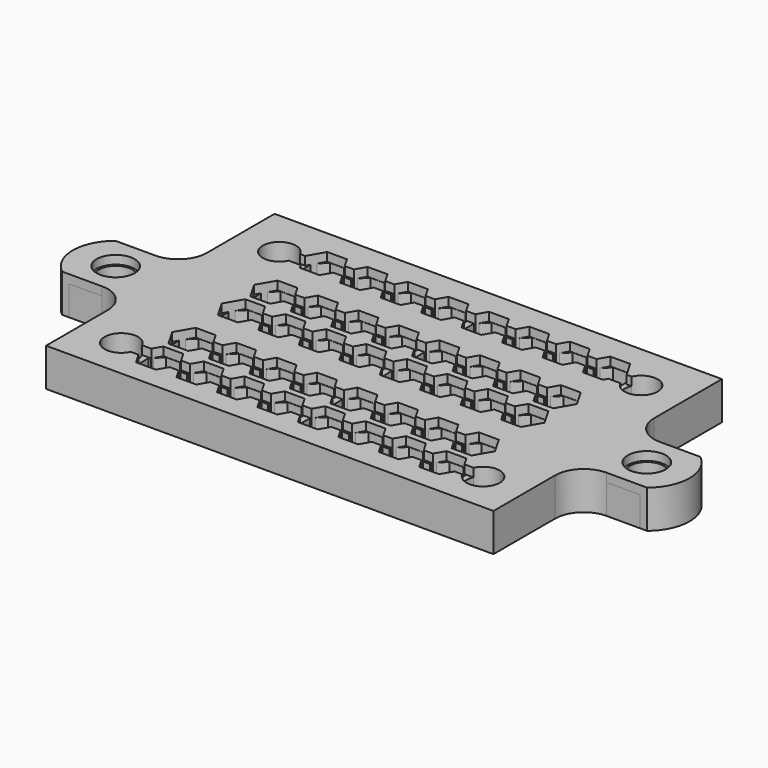
from build123d import *

# Parameters (mm, degrees)
F2_R     = 2
F3_DEPTH = 4
F0_R     = 1.775
F4_DEPTH = 3.1
F1_W     = 12
F1_H     = 1
F5_DEPTH = 25
F6_SIZE  = 2


with BuildPart() as f3:
    # F2 (on Top) → F3 (new body)
    with BuildSketch(Plane.XY):
        with BuildLine():
            Line((-23.524906, -14.603892), (23.475094, -14.603892))
            Line((23.475094, -14.603892), (23.475094, -6.5))
            ThreePointArc((23.475094, -6.5), (24.353773, -4.37868), (26.475094, -3.5))
            Line((26.475094, -3.5), (30.728427, -3.5))
            ThreePointArc((30.728427, -3.5), (32.4, 0), (30.728427, 3.5))
            Line((30.728427, 3.5), (26.475094, 3.5))
            ThreePointArc((26.475094, 3.5), (24.353773, 4.37868), (23.475094, 6.5))
            Line((23.475094, 6.5), (23.475094, 15.396108))
            Line((23.475094, 15.396108), (-23.524906, 15.396108))
            Line((-23.524906, 15.396108), (-23.524906, 6.5))
            ThreePointArc((-23.524906, 6.5), (-24.403586, 4.37868), (-26.524906, 3.5))
            Line((-26.524906, 3.5), (-30.728427, 3.5))
            ThreePointArc((-30.728427, 3.5), (-32.4, 0), (-30.728427, -3.5))
            Line((-30.728427, -3.5), (-26.524906, -3.5))
            ThreePointArc((-26.524906, -3.5), (-24.403586, -4.37868), (-23.524906, -6.5))
            Line((-23.524906, -6.5), (-23.524906, -14.603892))
        make_face()
        with Locations((-27.9, 0)):
            Circle(F2_R, mode=Mode.SUBTRACT)
        with BuildLine():
            Line((0.479552, -9.75), (1.08577, -8.7))
            Line((1.08577, -8.7), (3.16423, -8.7))
            Line((3.16423, -8.7), (3.770448, -9.75))
            Line((3.770448, -9.75), (4.729552, -9.75))
            Line((4.729552, -9.75), (5.33577, -8.7))
            Line((5.33577, -8.7), (7.41423, -8.7))
            Line((7.41423, -8.7), (8.020448, -9.75))
            Line((8.020448, -9.75), (8.979552, -9.75))
            Line((8.979552, -9.75), (9.58577, -8.7))
            Line((9.58577, -8.7), (11.66423, -8.7))
            Line((11.66423, -8.7), (12.270448, -9.75))
            Line((12.270448, -9.75), (13.229552, -9.75))
            Line((13.229552, -9.75), (13.83577, -8.7))
            Line((13.83577, -8.7), (15.91423, -8.7))
            Line((15.91423, -8.7), (16.448279, -9.625))
            Line((16.448279, -9.625), (17.418861, -9.625))
            ThreePointArc((17.418861, -9.625), (20.75, -10.375), (17.418861, -11.125))
            Line((17.418861, -11.125), (16.592617, -11.125))
            Line((16.592617, -11.125), (15.91423, -12.3))
            Line((15.91423, -12.3), (13.83577, -12.3))
            Line((13.83577, -12.3), (13.229552, -11.25))
            Line((13.229552, -11.25), (12.270448, -11.25))
            Line((12.270448, -11.25), (11.66423, -12.3))
            Line((11.66423, -12.3), (9.58577, -12.3))
            Line((9.58577, -12.3), (8.979552, -11.25))
            Line((8.979552, -11.25), (8.020448, -11.25))
            Line((8.020448, -11.25), (7.41423, -12.3))
            Line((7.41423, -12.3), (5.33577, -12.3))
            Line((5.33577, -12.3), (4.729552, -11.25))
            Line((4.729552, -11.25), (3.770448, -11.25))
            Line((3.770448, -11.25), (3.16423, -12.3))
            Line((3.16423, -12.3), (1.08577, -12.3))
            Line((1.08577, -12.3), (0.479552, -11.25))
            Line((0.479552, -11.25), (-0.479552, -11.25))
            Line((-0.479552, -11.25), (-1.08577, -12.3))
            Line((-1.08577, -12.3), (-3.16423, -12.3))
            Line((-3.16423, -12.3), (-3.770448, -11.25))
            Line((-3.770448, -11.25), (-4.729552, -11.25))
            Line((-4.729552, -11.25), (-5.33577, -12.3))
            Line((-5.33577, -12.3), (-7.41423, -12.3))
            Line((-7.41423, -12.3), (-8.020448, -11.25))
            Line((-8.020448, -11.25), (-8.979552, -11.25))
            Line((-8.979552, -11.25), (-9.58577, -12.3))
            Line((-9.58577, -12.3), (-11.66423, -12.3))
            Line((-11.66423, -12.3), (-12.270448, -11.25))
            Line((-12.270448, -11.25), (-13.229552, -11.25))
            Line((-13.229552, -11.25), (-13.83577, -12.3))
            Line((-13.83577, -12.3), (-15.91423, -12.3))
            Line((-15.91423, -12.3), (-16.592617, -11.125))
            Line((-16.592617, -11.125), (-17.418861, -11.125))
            ThreePointArc((-17.418861, -11.125), (-20.75, -10.375), (-17.418861, -9.625))
            Line((-17.418861, -9.625), (-16.448279, -9.625))
            Line((-16.448279, -9.625), (-15.91423, -8.7))
            Line((-15.91423, -8.7), (-13.83577, -8.7))
            Line((-13.83577, -8.7), (-13.229552, -9.75))
            Line((-13.229552, -9.75), (-12.270448, -9.75))
            Line((-12.270448, -9.75), (-11.66423, -8.7))
            Line((-11.66423, -8.7), (-9.58577, -8.7))
            Line((-9.58577, -8.7), (-8.979552, -9.75))
            Line((-8.979552, -9.75), (-8.020448, -9.75))
            Line((-8.020448, -9.75), (-7.41423, -8.7))
            Line((-7.41423, -8.7), (-5.33577, -8.7))
            Line((-5.33577, -8.7), (-4.729552, -9.75))
            Line((-4.729552, -9.75), (-3.770448, -9.75))
            Line((-3.770448, -9.75), (-3.16423, -8.7))
            Line((-3.16423, -8.7), (-1.08577, -8.7))
            Line((-1.08577, -8.7), (-0.479552, -9.75))
            Line((-0.479552, -9.75), (0.479552, -9.75))
        make_face(mode=Mode.SUBTRACT)
        Polygon((8.979552, -5.5), (9.58577, -4.45), (11.66423, -4.45), (12.270448, -5.5), (13.229552, -5.5), (13.83577, -4.45), (15.91423, -4.45), (16.953461, -6.25), (15.91423, -8.05), (13.83577, -8.05), (13.229552, -7), (12.270448, -7), (11.66423, -8.05), (9.58577, -8.05), (8.979552, -7), (8.020448, -7), (7.41423, -8.05), (5.33577, -8.05), (4.729552, -7), (3.770448, -7), (3.16423, -8.05), (1.08577, -8.05), (0.479552, -7), (-0.479552, -7), (-1.08577, -8.05), (-3.16423, -8.05), (-3.770448, -7), (-4.729552, -7), (-5.33577, -8.05), (-7.41423, -8.05), (-8.020448, -7), (-8.979552, -7), (-9.58577, -8.05), (-11.66423, -8.05), (-12.270448, -7), (-13.229552, -7), (-13.83577, -8.05), (-15.91423, -8.05), (-16.953461, -6.25), (-15.91423, -4.45), (-13.83577, -4.45), (-13.229552, -5.5), (-12.270448, -5.5), (-11.66423, -4.45), (-9.58577, -4.45), (-8.979552, -5.5), (-8.020448, -5.5), (-7.41423, -4.45), (-5.33577, -4.45), (-4.729552, -5.5), (-3.770448, -5.5), (-3.16423, -4.45), (-1.08577, -4.45), (-0.479552, -5.5), (0.479552, -5.5), (1.08577, -4.45), (3.16423, -4.45), (3.770448, -5.5), (4.729552, -5.5), (5.33577, -4.45), (7.41423, -4.45), (8.020448, -5.5), align=None, mode=Mode.SUBTRACT)
        Polygon((0.479552, 1), (1.08577, 2.05), (3.16423, 2.05), (3.770448, 1), (4.729552, 1), (5.33577, 2.05), (7.41423, 2.05), (8.020448, 1), (8.979552, 1), (9.58577, 2.05), (11.66423, 2.05), (12.270448, 1), (13.229552, 1), (13.83577, 2.05), (15.91423, 2.05), (16.953461, 0.25), (15.91423, -1.55), (13.83577, -1.55), (13.229552, -0.5), (12.270448, -0.5), (11.66423, -1.55), (9.58577, -1.55), (8.979552, -0.5), (8.020448, -0.5), (7.41423, -1.55), (5.33577, -1.55), (4.729552, -0.5), (3.770448, -0.5), (3.16423, -1.55), (1.08577, -1.55), (0.479552, -0.5), (-0.479552, -0.5), (-1.08577, -1.55), (-3.16423, -1.55), (-3.770448, -0.5), (-4.729552, -0.5), (-5.33577, -1.55), (-7.41423, -1.55), (-8.020448, -0.5), (-8.979552, -0.5), (-9.58577, -1.55), (-11.66423, -1.55), (-12.270448, -0.5), (-13.229552, -0.5), (-13.83577, -1.55), (-15.91423, -1.55), (-16.953461, 0.25), (-15.91423, 2.05), (-13.83577, 2.05), (-13.229552, 1), (-12.270448, 1), (-11.66423, 2.05), (-9.58577, 2.05), (-8.979552, 1), (-8.020448, 1), (-7.41423, 2.05), (-5.33577, 2.05), (-4.729552, 1), (-3.770448, 1), (-3.16423, 2.05), (-1.08577, 2.05), (-0.479552, 1), align=None, mode=Mode.SUBTRACT)
        with Locations((27.9, 0)):
            Circle(F2_R, mode=Mode.SUBTRACT)
        Polygon((12.270448, 3.75), (11.66423, 2.7), (9.58577, 2.7), (8.979552, 3.75), (8.020448, 3.75), (7.41423, 2.7), (5.33577, 2.7), (4.729552, 3.75), (3.770448, 3.75), (3.16423, 2.7), (1.08577, 2.7), (0.479552, 3.75), (-0.479552, 3.75), (-1.08577, 2.7), (-3.16423, 2.7), (-3.770448, 3.75), (-4.729552, 3.75), (-5.33577, 2.7), (-7.41423, 2.7), (-8.020448, 3.75), (-8.979552, 3.75), (-9.58577, 2.7), (-11.66423, 2.7), (-12.270448, 3.75), (-13.229552, 3.75), (-13.373889, 3.5), (-13.83577, 2.7), (-15.91423, 2.7), (-16.953461, 4.5), (-15.91423, 6.3), (-13.83577, 6.3), (-13.229552, 5.25), (-12.270448, 5.25), (-11.66423, 6.3), (-9.58577, 6.3), (-8.979552, 5.25), (-8.020448, 5.25), (-7.41423, 6.3), (-5.33577, 6.3), (-4.729552, 5.25), (-3.770448, 5.25), (-3.16423, 6.3), (-1.08577, 6.3), (-0.479552, 5.25), (0.479552, 5.25), (1.08577, 6.3), (3.16423, 6.3), (3.770448, 5.25), (4.729552, 5.25), (5.33577, 6.3), (7.41423, 6.3), (8.020448, 5.25), (8.979552, 5.25), (9.58577, 6.3), (11.66423, 6.3), (12.270448, 5.25), (13.229552, 5.25), (13.83577, 6.3), (15.91423, 6.3), (16.953461, 4.5), (15.91423, 2.7), (13.83577, 2.7), (13.229552, 3.75), align=None, mode=Mode.SUBTRACT)
        with BuildLine():
            Line((-16.881292, 11.125), (-15.91423, 12.8))
            Line((-15.91423, 12.8), (-13.83577, 12.8))
            Line((-13.83577, 12.8), (-13.229552, 11.75))
            Line((-13.229552, 11.75), (-12.270448, 11.75))
            Line((-12.270448, 11.75), (-11.66423, 12.8))
            Line((-11.66423, 12.8), (-9.58577, 12.8))
            Line((-9.58577, 12.8), (-8.979552, 11.75))
            Line((-8.979552, 11.75), (-8.020448, 11.75))
            Line((-8.020448, 11.75), (-7.41423, 12.8))
            Line((-7.41423, 12.8), (-5.33577, 12.8))
            Line((-5.33577, 12.8), (-4.729552, 11.75))
            Line((-4.729552, 11.75), (-3.770448, 11.75))
            Line((-3.770448, 11.75), (-3.16423, 12.8))
            Line((-3.16423, 12.8), (-1.08577, 12.8))
            Line((-1.08577, 12.8), (-0.479552, 11.75))
            Line((-0.479552, 11.75), (0.479552, 11.75))
            Line((0.479552, 11.75), (1.08577, 12.8))
            Line((1.08577, 12.8), (3.16423, 12.8))
            Line((3.16423, 12.8), (3.770448, 11.75))
            Line((3.770448, 11.75), (4.729552, 11.75))
            Line((4.729552, 11.75), (5.33577, 12.8))
            Line((5.33577, 12.8), (7.41423, 12.8))
            Line((7.41423, 12.8), (8.020448, 11.75))
            Line((8.020448, 11.75), (8.979552, 11.75))
            Line((8.979552, 11.75), (9.58577, 12.8))
            Line((9.58577, 12.8), (11.66423, 12.8))
            Line((11.66423, 12.8), (12.270448, 11.75))
            Line((12.270448, 11.75), (13.229552, 11.75))
            Line((13.229552, 11.75), (13.83577, 12.8))
            Line((13.83577, 12.8), (15.91423, 12.8))
            Line((15.91423, 12.8), (16.881292, 11.125))
            Line((16.881292, 11.125), (17.418861, 11.125))
            ThreePointArc((17.418861, 11.125), (20.75, 10.375), (17.418861, 9.625))
            Line((17.418861, 9.625), (16.159604, 9.625))
            Line((16.159604, 9.625), (15.91423, 9.2))
            Line((15.91423, 9.2), (13.83577, 9.2))
            Line((13.83577, 9.2), (13.229552, 10.25))
            Line((13.229552, 10.25), (12.270448, 10.25))
            Line((12.270448, 10.25), (11.66423, 9.2))
            Line((11.66423, 9.2), (9.58577, 9.2))
            Line((9.58577, 9.2), (8.979552, 10.25))
            Line((8.979552, 10.25), (8.020448, 10.25))
            Line((8.020448, 10.25), (7.41423, 9.2))
            Line((7.41423, 9.2), (5.33577, 9.2))
            Line((5.33577, 9.2), (4.729552, 10.25))
            Line((4.729552, 10.25), (3.770448, 10.25))
            Line((3.770448, 10.25), (3.16423, 9.2))
            Line((3.16423, 9.2), (1.08577, 9.2))
            Line((1.08577, 9.2), (0.479552, 10.25))
            Line((0.479552, 10.25), (-0.479552, 10.25))
            Line((-0.479552, 10.25), (-1.08577, 9.2))
            Line((-1.08577, 9.2), (-3.16423, 9.2))
            Line((-3.16423, 9.2), (-3.770448, 10.25))
            Line((-3.770448, 10.25), (-4.729552, 10.25))
            Line((-4.729552, 10.25), (-5.33577, 9.2))
            Line((-5.33577, 9.2), (-7.41423, 9.2))
            Line((-7.41423, 9.2), (-8.020448, 10.25))
            Line((-8.020448, 10.25), (-8.979552, 10.25))
            Line((-8.979552, 10.25), (-9.58577, 9.2))
            Line((-9.58577, 9.2), (-11.66423, 9.2))
            Line((-11.66423, 9.2), (-12.270448, 10.25))
            Line((-12.270448, 10.25), (-13.229552, 10.25))
            Line((-13.229552, 10.25), (-13.83577, 9.2))
            Line((-13.83577, 9.2), (-15.91423, 9.2))
            Line((-15.91423, 9.2), (-16.159604, 9.625))
            Line((-16.159604, 9.625), (-17.418861, 9.625))
            ThreePointArc((-17.418861, 9.625), (-20.75, 10.375), (-17.418861, 11.125))
            Line((-17.418861, 11.125), (-16.881292, 11.125))
        make_face(mode=Mode.SUBTRACT)
    extrude(amount=F3_DEPTH)


with BuildPart() as f4:
    # F0 (on Top) → F4 (new body)
    with BuildSketch(Plane.XY):
        Polygon((-23, -13.75), (23, -13.75), (23, -3.5), (32, -3.5), (32, 3.5), (23, 3.5), (23, 14.25), (-23, 14.25), (-23, 3.5), (-32, 3.5), (-32, -3.5), (-23, -3.5), align=None)
        with Locations((-19, -10.375)):
            Circle(F0_R, mode=Mode.SUBTRACT)
        Polygon((-16.65, -11.235229), (-16.65, -9.764771), (-15.610229, -8.725), (-14.139771, -8.725), (-13.1, -9.764771), (-13.1, -11.235229), (-14.139771, -12.275), (-15.610229, -12.275), align=None, mode=Mode.SUBTRACT)
        Polygon((-8.85, -11.235229), (-9.889771, -12.275), (-11.360229, -12.275), (-12.4, -11.235229), (-12.4, -9.764771), (-11.360229, -8.725), (-9.889771, -8.725), (-8.85, -9.764771), align=None, mode=Mode.SUBTRACT)
        Polygon((-4.6, -9.764771), (-4.6, -11.235229), (-5.639771, -12.275), (-7.110229, -12.275), (-8.15, -11.235229), (-8.15, -9.764771), (-7.110229, -8.725), (-5.639771, -8.725), align=None, mode=Mode.SUBTRACT)
        Polygon((-3.9, -9.764771), (-2.860229, -8.725), (-1.389771, -8.725), (-0.35, -9.764771), (-0.35, -11.235229), (-1.389771, -12.275), (-2.860229, -12.275), (-3.9, -11.235229), align=None, mode=Mode.SUBTRACT)
        with Locations((-27.9, 0)):
            Circle(F0_R, mode=Mode.SUBTRACT)
        Polygon((-15.610229, -8.025), (-16.65, -6.985229), (-16.65, -5.514771), (-15.610229, -4.475), (-14.139771, -4.475), (-13.1, -5.514771), (-13.1, -6.985229), (-14.139771, -8.025), align=None, mode=Mode.SUBTRACT)
        Polygon((-9.889771, -4.475), (-8.85, -5.514771), (-8.85, -6.985229), (-9.889771, -8.025), (-11.360229, -8.025), (-12.4, -6.985229), (-12.4, -5.514771), (-11.360229, -4.475), align=None, mode=Mode.SUBTRACT)
        Polygon((-5.639771, -8.025), (-7.110229, -8.025), (-8.15, -6.985229), (-8.15, -5.514771), (-7.110229, -4.475), (-5.639771, -4.475), (-4.6, -5.514771), (-4.6, -6.985229), align=None, mode=Mode.SUBTRACT)
        Polygon((-3.9, -6.985229), (-3.9, -5.514771), (-2.860229, -4.475), (-1.389771, -4.475), (-0.35, -5.514771), (-0.35, -6.985229), (-1.389771, -8.025), (-2.860229, -8.025), align=None, mode=Mode.SUBTRACT)
        Polygon((3.9, -9.764771), (3.9, -11.235229), (2.860229, -12.275), (1.389771, -12.275), (0.35, -11.235229), (0.35, -9.764771), (1.389771, -8.725), (2.860229, -8.725), align=None, mode=Mode.SUBTRACT)
        Polygon((8.15, -9.764771), (8.15, -11.235229), (7.110229, -12.275), (5.639771, -12.275), (4.6, -11.235229), (4.6, -9.764771), (5.639771, -8.725), (7.110229, -8.725), align=None, mode=Mode.SUBTRACT)
        Polygon((9.889771, -12.275), (8.85, -11.235229), (8.85, -9.764771), (9.889771, -8.725), (11.360229, -8.725), (12.4, -9.764771), (12.4, -11.235229), (11.360229, -12.275), align=None, mode=Mode.SUBTRACT)
        Polygon((16.65, -9.764771), (16.65, -11.235229), (15.610229, -12.275), (14.139771, -12.275), (13.1, -11.235229), (13.1, -9.764771), (14.139771, -8.725), (15.610229, -8.725), align=None, mode=Mode.SUBTRACT)
        with Locations((19, -10.375)):
            Circle(F0_R, mode=Mode.SUBTRACT)
        Polygon((3.9, -5.514771), (3.9, -6.985229), (2.860229, -8.025), (1.389771, -8.025), (0.35, -6.985229), (0.35, -5.514771), (1.389771, -4.475), (2.860229, -4.475), align=None, mode=Mode.SUBTRACT)
        Polygon((8.15, -5.514771), (8.15, -6.985229), (7.110229, -8.025), (5.639771, -8.025), (4.6, -6.985229), (4.6, -5.514771), (5.639771, -4.475), (7.110229, -4.475), align=None, mode=Mode.SUBTRACT)
        Polygon((12.4, -5.514771), (12.4, -6.985229), (11.360229, -8.025), (9.889771, -8.025), (8.85, -6.985229), (8.85, -5.514771), (9.889771, -4.475), (11.360229, -4.475), align=None, mode=Mode.SUBTRACT)
        Polygon((15.610229, -4.475), (16.65, -5.514771), (16.65, -6.985229), (15.610229, -8.025), (14.139771, -8.025), (13.1, -6.985229), (13.1, -5.514771), (14.139771, -4.475), align=None, mode=Mode.SUBTRACT)
        with Locations((27.9, 0)):
            Circle(F0_R, mode=Mode.SUBTRACT)
        Polygon((-16.65, -0.485229), (-16.65, 0.985229), (-15.610229, 2.025), (-14.139771, 2.025), (-13.1, 0.985229), (-13.1, -0.485229), (-14.139771, -1.525), (-15.610229, -1.525), align=None, mode=Mode.SUBTRACT)
        Polygon((-8.85, -0.485229), (-9.889771, -1.525), (-11.360229, -1.525), (-12.4, -0.485229), (-12.4, 0.985229), (-11.360229, 2.025), (-9.889771, 2.025), (-8.85, 0.985229), align=None, mode=Mode.SUBTRACT)
        Polygon((-4.6, 0.985229), (-4.6, -0.485229), (-5.639771, -1.525), (-7.110229, -1.525), (-8.15, -0.485229), (-8.15, 0.985229), (-7.110229, 2.025), (-5.639771, 2.025), align=None, mode=Mode.SUBTRACT)
        Polygon((-3.9, 0.985229), (-2.860229, 2.025), (-1.389771, 2.025), (-0.35, 0.985229), (-0.35, -0.485229), (-1.389771, -1.525), (-2.860229, -1.525), (-3.9, -0.485229), align=None, mode=Mode.SUBTRACT)
        Polygon((-16.65, 5.235229), (-15.610229, 6.275), (-14.139771, 6.275), (-13.1, 5.235229), (-13.1, 3.764771), (-14.139771, 2.725), (-15.610229, 2.725), (-16.65, 3.764771), align=None, mode=Mode.SUBTRACT)
        Polygon((-11.360229, 6.275), (-9.889771, 6.275), (-8.85, 5.235229), (-8.85, 3.764771), (-9.889771, 2.725), (-11.360229, 2.725), (-12.4, 3.764771), (-12.4, 5.235229), align=None, mode=Mode.SUBTRACT)
        Polygon((-5.639771, 2.725), (-7.110229, 2.725), (-8.15, 3.764771), (-8.15, 5.235229), (-7.110229, 6.275), (-5.639771, 6.275), (-4.6, 5.235229), (-4.6, 3.764771), align=None, mode=Mode.SUBTRACT)
        Polygon((-0.35, 5.235229), (-0.35, 3.764771), (-1.389771, 2.725), (-2.860229, 2.725), (-3.9, 3.764771), (-3.9, 5.235229), (-2.860229, 6.275), (-1.389771, 6.275), align=None, mode=Mode.SUBTRACT)
        with Locations((-19, 10.375)):
            Circle(F0_R, mode=Mode.SUBTRACT)
        Polygon((-16.65, 11.735229), (-15.610229, 12.775), (-14.139771, 12.775), (-13.1, 11.735229), (-13.1, 10.264771), (-14.139771, 9.225), (-15.610229, 9.225), (-16.65, 10.264771), align=None, mode=Mode.SUBTRACT)
        Polygon((-12.4, 11.735229), (-11.360229, 12.775), (-9.889771, 12.775), (-8.85, 11.735229), (-8.85, 10.264771), (-9.889771, 9.225), (-11.360229, 9.225), (-12.4, 10.264771), align=None, mode=Mode.SUBTRACT)
        Polygon((-8.15, 11.735229), (-7.110229, 12.775), (-5.639771, 12.775), (-4.6, 11.735229), (-4.6, 10.264771), (-5.639771, 9.225), (-7.110229, 9.225), (-8.15, 10.264771), align=None, mode=Mode.SUBTRACT)
        Polygon((-3.9, 11.735229), (-2.860229, 12.775), (-1.389771, 12.775), (-0.35, 11.735229), (-0.35, 10.264771), (-1.389771, 9.225), (-2.860229, 9.225), (-3.9, 10.264771), align=None, mode=Mode.SUBTRACT)
        Polygon((3.9, 0.985229), (3.9, -0.485229), (2.860229, -1.525), (1.389771, -1.525), (0.35, -0.485229), (0.35, 0.985229), (1.389771, 2.025), (2.860229, 2.025), align=None, mode=Mode.SUBTRACT)
        Polygon((8.15, 0.985229), (8.15, -0.485229), (7.110229, -1.525), (5.639771, -1.525), (4.6, -0.485229), (4.6, 0.985229), (5.639771, 2.025), (7.110229, 2.025), align=None, mode=Mode.SUBTRACT)
        Polygon((9.889771, -1.525), (8.85, -0.485229), (8.85, 0.985229), (9.889771, 2.025), (11.360229, 2.025), (12.4, 0.985229), (12.4, -0.485229), (11.360229, -1.525), align=None, mode=Mode.SUBTRACT)
        Polygon((16.65, 0.985229), (16.65, -0.485229), (15.610229, -1.525), (14.139771, -1.525), (13.1, -0.485229), (13.1, 0.985229), (14.139771, 2.025), (15.610229, 2.025), align=None, mode=Mode.SUBTRACT)
        Polygon((3.9, 5.235229), (3.9, 3.764771), (2.860229, 2.725), (1.389771, 2.725), (0.35, 3.764771), (0.35, 5.235229), (1.389771, 6.275), (2.860229, 6.275), align=None, mode=Mode.SUBTRACT)
        Polygon((8.15, 5.235229), (8.15, 3.764771), (7.110229, 2.725), (5.639771, 2.725), (4.6, 3.764771), (4.6, 5.235229), (5.639771, 6.275), (7.110229, 6.275), align=None, mode=Mode.SUBTRACT)
        Polygon((12.4, 5.235229), (12.4, 3.764771), (11.360229, 2.725), (9.889771, 2.725), (8.85, 3.764771), (8.85, 5.235229), (9.889771, 6.275), (11.360229, 6.275), align=None, mode=Mode.SUBTRACT)
        Polygon((15.610229, 6.275), (16.65, 5.235229), (16.65, 3.764771), (15.610229, 2.725), (14.139771, 2.725), (13.1, 3.764771), (13.1, 5.235229), (14.139771, 6.275), align=None, mode=Mode.SUBTRACT)
        Polygon((0.35, 11.735229), (1.389771, 12.775), (2.860229, 12.775), (3.9, 11.735229), (3.9, 10.264771), (2.860229, 9.225), (1.389771, 9.225), (0.35, 10.264771), align=None, mode=Mode.SUBTRACT)
        Polygon((4.6, 11.735229), (5.639771, 12.775), (7.110229, 12.775), (8.15, 11.735229), (8.15, 10.264771), (7.110229, 9.225), (5.639771, 9.225), (4.6, 10.264771), align=None, mode=Mode.SUBTRACT)
        Polygon((8.85, 11.735229), (9.889771, 12.775), (11.360229, 12.775), (12.4, 11.735229), (12.4, 10.264771), (11.360229, 9.225), (9.889771, 9.225), (8.85, 10.264771), align=None, mode=Mode.SUBTRACT)
        Polygon((13.1, 11.735229), (14.139771, 12.775), (15.610229, 12.775), (16.65, 11.735229), (16.65, 10.264771), (15.610229, 9.225), (14.139771, 9.225), (13.1, 10.264771), align=None, mode=Mode.SUBTRACT)
        with Locations((19, 10.375)):
            Circle(F0_R, mode=Mode.SUBTRACT)
    extrude(amount=F4_DEPTH)

    # F1 (on Top) → F5 (cut)
    with BuildSketch(Plane.XY):
        with Locations((-8.375, 11)):
            Rectangle(F1_W, F1_H)
        with Locations((-8.375, 4.5)):
            Rectangle(F1_W, F1_H)
        with Locations((-8.375, 0.25)):
            Rectangle(F1_W, F1_H)
        with Locations((-8.375, -6.25)):
            Rectangle(F1_W, F1_H)
        with Locations((-8.375, -10.5)):
            Rectangle(F1_W, F1_H)
        with Locations((8.375, -10.5)):
            Rectangle(F1_W, F1_H)
        with Locations((8.375, 0.25)):
            Rectangle(F1_W, F1_H)
        with Locations((8.375, -6.25)):
            Rectangle(F1_W, F1_H)
        with Locations((8.375, 11)):
            Rectangle(F1_W, F1_H)
        with Locations((8.375, 4.5)):
            Rectangle(F1_W, F1_H)
    extrude(amount=F5_DEPTH, mode=Mode.SUBTRACT)

    # F6
    f6_edges = [f4.edges().sort_by_distance(p)[0] for p in [
        (-23, -3.5, 1.55),
        (23, -3.5, 1.55),
        (23, 3.5, 1.55),
        (-23, 3.5, 1.55),
        (32, 3.5, 1.55),
        (32, -3.5, 1.55),
        (-32, 3.5, 1.55),
        (-32, -3.5, 1.55),
    ]]
    chamfer(f6_edges, length=F6_SIZE)


solid = Compound([f3.part, f4.part])
